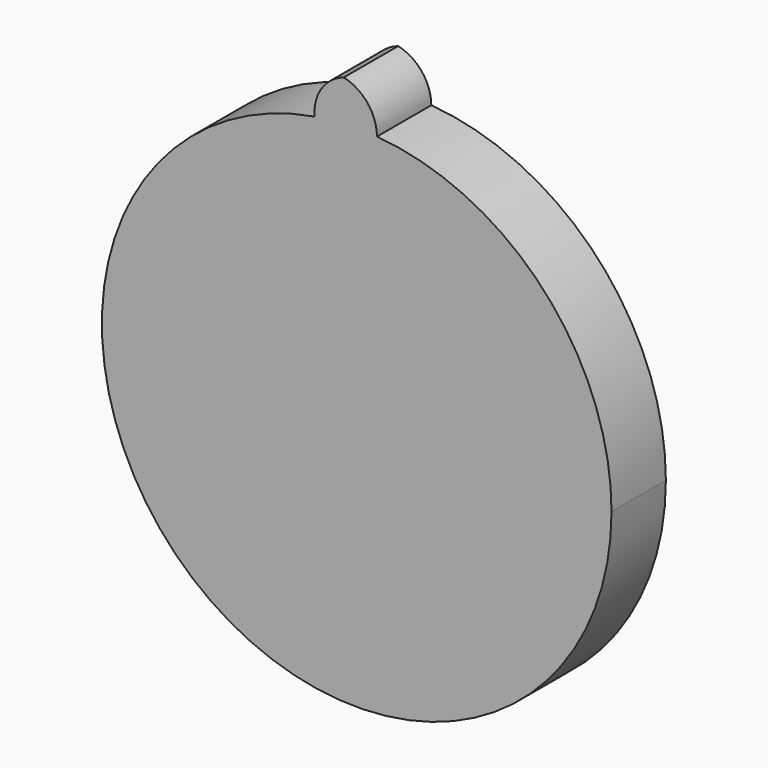
from build123d import *

# Parameters (mm, degrees)
F1_DEPTH = 2


with BuildPart() as f1:
    # F0 (on Front) → F1 (new body)
    with BuildSketch(Plane.XZ):
        with BuildLine():
            ThreePointArc((-1.2403320916, 7.3967274049), (-4.8449721007, -5.7250541782), (7.5, 0))
            ThreePointArc((7.5, 0), (5.5101007469, 5.0881027662), (0.5963227308, 7.4762556939))
            ThreePointArc((0.5963227308, 7.4762556939), (-0.3244506147, 7.4929788335), (-1.2403320916, 7.3967274049))
        make_face()
        with BuildLine():
            ThreePointArc((-1.2403320916, 7.3967274049), (-0.3244506147, 7.4929788335), (0.5963227308, 7.4762556939))
            ThreePointArc((0.5963227308, 7.4762556939), (0.3208605279, 8.2542718418), (-0.3794578187, 8.6910129151))
            ThreePointArc((-0.3794578187, 8.6910129151), (-1.0347746726, 8.1934454753), (-1.2403320916, 7.3967274049))
        make_face()
    extrude(amount=F1_DEPTH)


solid = f1.part
